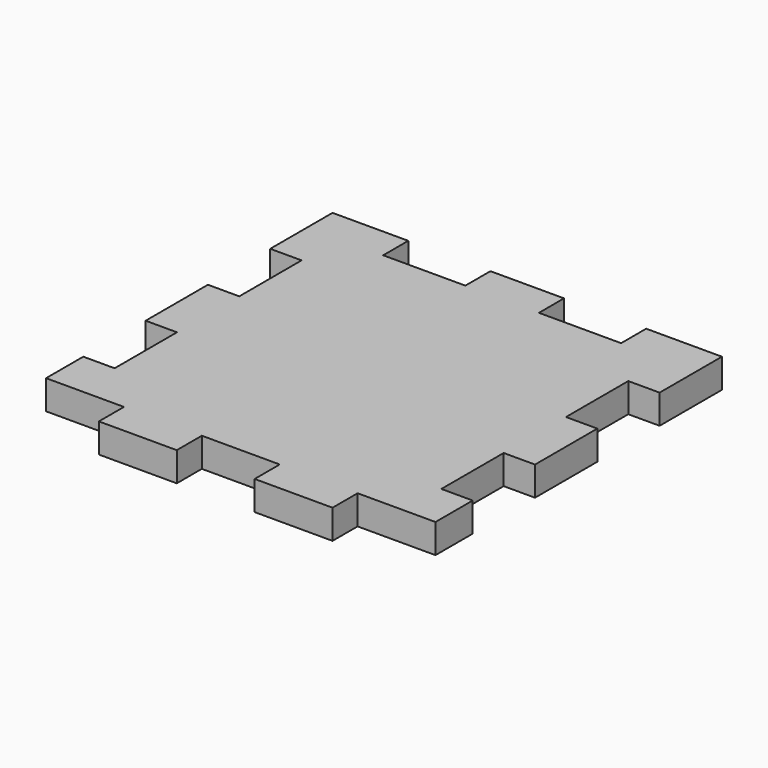
from build123d import *

# Parameters (mm, degrees)
F0_W     = 40
F0_H     = 40
F1_DEPTH = 3
F2_W     = 8
F2_H     = 3
F2_W_2   = 3
F2_H_2   = 8
F3_DEPTH = 3.001
F4_W     = 8.44
F4_H     = 3.22
F4_W_2   = 8
F4_H_2   = 0.22
F4_W_3   = 0.22
F4_H_3   = 8
F5_DEPTH = 3.001


with BuildPart() as f1:
    # F0 (on Top) → F1 (new body)
    with BuildSketch(Plane.XY):
        Rectangle(F0_W, F0_H)
    extrude(amount=F1_DEPTH)

    # F2 (on face) → F3 (cut, through all)
    with BuildSketch(Plane(origin=(0, 0, 0), x_dir=(1, 0, 0), z_dir=(0, 0, -1))):
        with Locations((-8, -18.5)):
            Rectangle(F2_W, F2_H)
        with Locations((8, -18.5)):
            Rectangle(F2_W, F2_H)
        with Locations((16, 18.5)):
            Rectangle(F2_W, F2_H)
        with Locations((0, 18.5)):
            Rectangle(F2_W, F2_H)
        with Locations((-18.5, -8)):
            Rectangle(F2_W_2, F2_H_2)
        with Locations((-18.5, 8)):
            Rectangle(F2_W_2, F2_H_2)
        with Locations((18.5, -8)):
            Rectangle(F2_W_2, F2_H_2)
        with Locations((18.5, 8)):
            Rectangle(F2_W_2, F2_H_2)
        with Locations((-16, 18.5)):
            Rectangle(F2_W, F2_H)
    extrude(amount=-F3_DEPTH, mode=Mode.SUBTRACT)

    # F4 (on face) → F5 (cut, through all)
    with BuildSketch(Plane(origin=(0, 0, 0), x_dir=(1, 0, 0), z_dir=(0, 0, -1))):
        with Locations((-8, -18.39)):
            Rectangle(F4_W, F4_H)
        with Locations((8, -18.39)):
            Rectangle(F4_W, F4_H)
        with Locations((-16, 16.89)):
            Rectangle(F4_W_2, F4_H_2)
        with Locations((0, 16.89)):
            Rectangle(F4_W_2, F4_H_2)
        with Locations((16, 16.89)):
            Rectangle(F4_W_2, F4_H_2)
        with Locations((-16.89, -8)):
            Rectangle(F4_W_3, F4_H_3)
        with Locations((-16.89, 8)):
            Rectangle(F4_W_3, F4_H_3)
        with Locations((16.89, -8)):
            Rectangle(F4_W_3, F4_H_3)
        with Locations((16.89, 8)):
            Rectangle(F4_W_3, F4_H_3)
    extrude(amount=-F5_DEPTH, mode=Mode.SUBTRACT)


solid = f1.part
